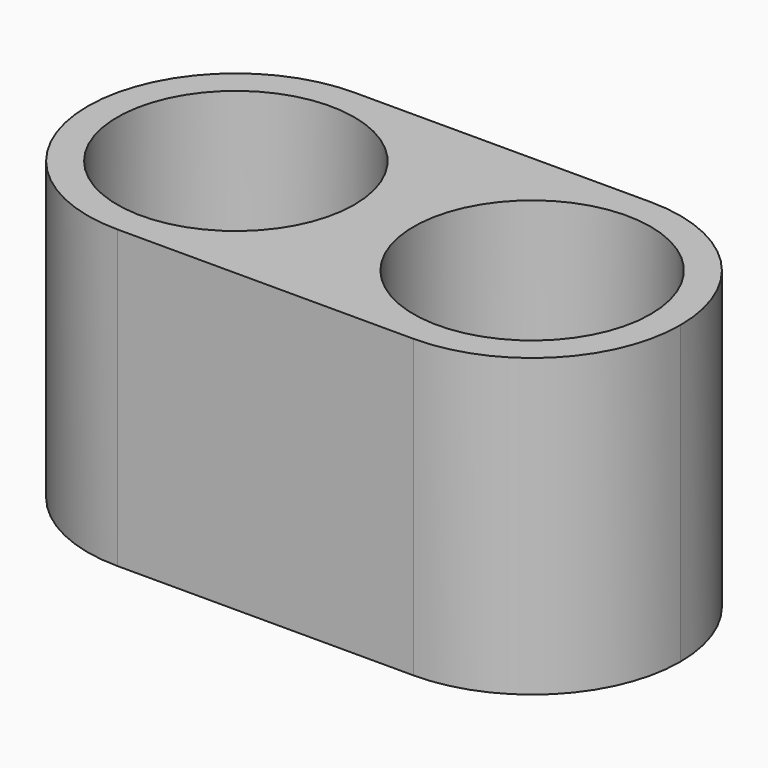
from build123d import *

# Parameters (mm, degrees)
F0_R     = 5.08
F1_DEPTH = 12.7


with BuildPart() as f1:
    # F0 (on Top) → F1 (new body)
    with BuildSketch(Plane.XY):
        with BuildLine():
            ThreePointArc((0, 6.35), (1.859872, 1.859872), (6.35, 0))
            Line((6.35, 0), (19.05, 0))
            ThreePointArc((19.05, 0), (23.540128, 1.859872), (25.4, 6.35))
            ThreePointArc((25.4, 6.35), (23.540128, 10.840128), (19.05, 12.7))
            Line((19.05, 12.7), (12.7, 12.7))
            Line((12.7, 12.7), (6.35, 12.7))
            ThreePointArc((6.35, 12.7), (1.859872, 10.840128), (0, 6.35))
        make_face()
        with Locations((6.35, 6.35)):
            Circle(F0_R, mode=Mode.SUBTRACT)
        with Locations((19.05, 6.35)):
            Circle(F0_R, mode=Mode.SUBTRACT)
    extrude(amount=F1_DEPTH)


solid = f1.part
